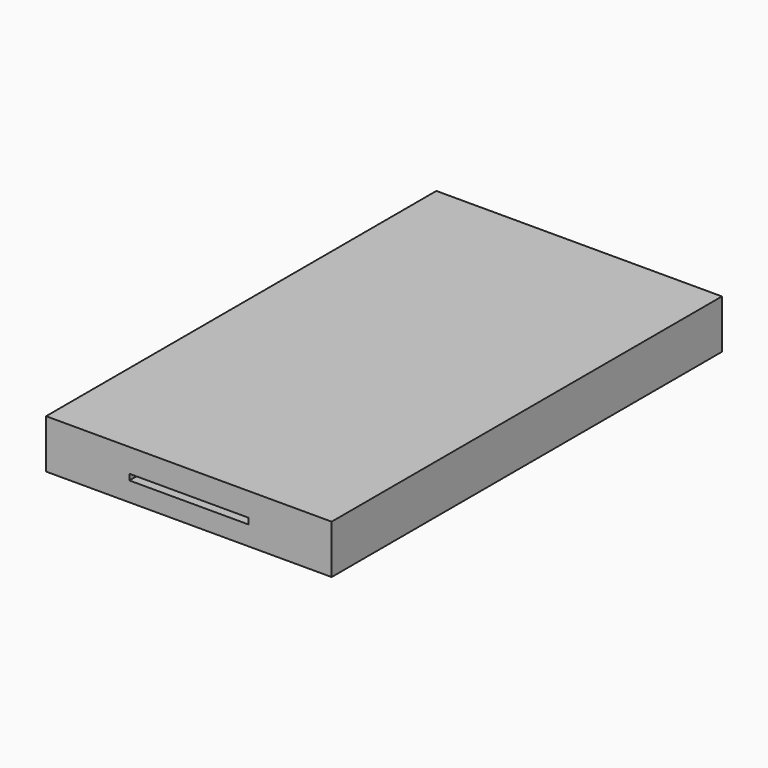
from build123d import *

# Parameters (mm, degrees)
F0_W     = 60.96
F0_H     = 104.14
F0_W_2   = 49.7204400599
F0_H_2   = 36.4855006337
F1_DEPTH = 10.414
F2_W     = 25.4
F2_H     = 1.27
F3_DEPTH = 10.16
F4_R     = 1.8844419378
F5_DEPTH = 19.05
F6_W     = 11.8811856955
F6_H     = 2.1055263933
F7_DEPTH = 2.54
F8_R     = 0.762


with BuildPart() as f1:
    # F0 (on Top) → F1 (new body)
    with BuildSketch(Plane.XY):
        Rectangle(F0_W, F0_H)
        with Locations((-0.3395788372, 28.8962163031)):
            Rectangle(F0_W_2, F0_H_2, mode=Mode.SUBTRACT)
        with Locations((-0.3395788372, 28.8962163031)):
            Rectangle(F0_W_2, F0_H_2)
    extrude(amount=F1_DEPTH)

    # F2 (on face) → F3 (cut)
    with BuildSketch(Plane.XZ.offset(52.07)):
        with Locations((0, 4.7498)):
            Rectangle(F2_W, F2_H)
    extrude(amount=-F3_DEPTH, mode=Mode.SUBTRACT)

    # F4 (on face) → F5 (cut)
    with BuildSketch(Plane(origin=(0, 52.07, 0), x_dir=(-1, 0, 0), z_dir=(0, 1, 0))):
        with Locations((24.78357777, 4.7017154284)):
            Circle(F4_R)
    extrude(amount=-F5_DEPTH, mode=Mode.SUBTRACT)

    # F6 (on face) → F7 (join)
    with BuildSketch(Plane(origin=(0, 52.07, 0), x_dir=(-1, 0, 0), z_dir=(0, 1, 0))):
        with Locations((-19.3572798744, 4.8521101708)):
            Rectangle(F6_W, F6_H)
    extrude(amount=F7_DEPTH)

    # F8
    f8_edges = [f1.edges().sort_by_distance(p)[0] for p in [
        (13.416687, 53.34, 3.799347),
        (25.297873, 53.34, 3.799347),
        (25.297873, 53.34, 5.904873),
        (13.416687, 53.34, 5.904873),
    ]]
    fillet(f8_edges, radius=F8_R)


solid = f1.part
